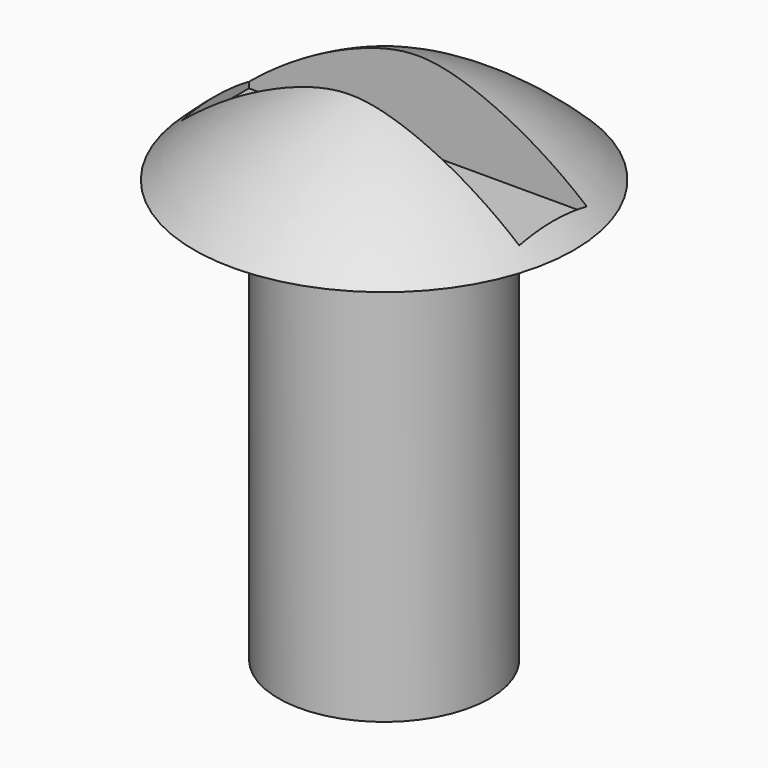
from build123d import *

# Parameters (mm, degrees)
F3_W     = 10.16
F3_H     = 2.54
F4_DEPTH = 2.922


with BuildPart() as f1:
    # F0 (on Front) → F1 (revolve)
    with BuildSketch(Plane.XZ):
        with BuildLine():
            Line((3.175, -12.7), (3.175, 0))
            Line((3.175, 0), (5.715, 0))
            ThreePointArc((5.715, 0), (3.056154, 1.945077), (0, 3.175))
            Line((0, 3.175), (0, -12.7))
            Line((0, -12.7), (3.175, -12.7))
        make_face()
    revolve(axis=Axis((0, 0, -4.7625), (0, 0, -1)))

    # F3 (on offset) → F4 (cut, through all)
    with BuildSketch(Plane.XY.offset(0.254)):
        Rectangle(F3_W, F3_H)
    extrude(amount=F4_DEPTH, mode=Mode.SUBTRACT)


solid = f1.part
